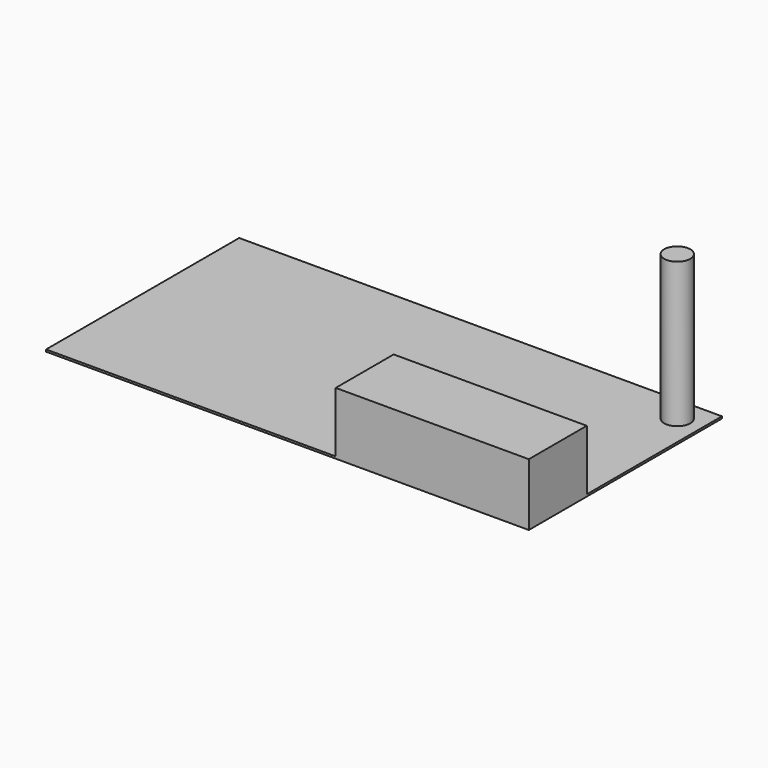
from build123d import *

# Parameters (mm, degrees)
F0_W     = 6096
F0_H     = 3048
F1_DEPTH = 25.4
F2_W     = 2438.4
F2_H     = 914.4
F3_DEPTH = 762
F4_R     = 164.38696
F5_DEPTH = 1828.8


with BuildPart() as f1:
    # F0 (on Top) → F1 (new body)
    with BuildSketch(Plane.XY):
        Rectangle(F0_W, F0_H)
    extrude(amount=-F1_DEPTH)

    # F2 (on face) → F3 (join)
    with BuildSketch(Plane.XY):
        with Locations((1828.8, -1066.8)):
            Rectangle(F2_W, F2_H)
    extrude(amount=F3_DEPTH)

    # F4 (on face) → F5 (join)
    with BuildSketch(Plane.XY):
        with Locations((2733.941793, 1211.60531)):
            Circle(F4_R)
    extrude(amount=F5_DEPTH)


solid = f1.part
